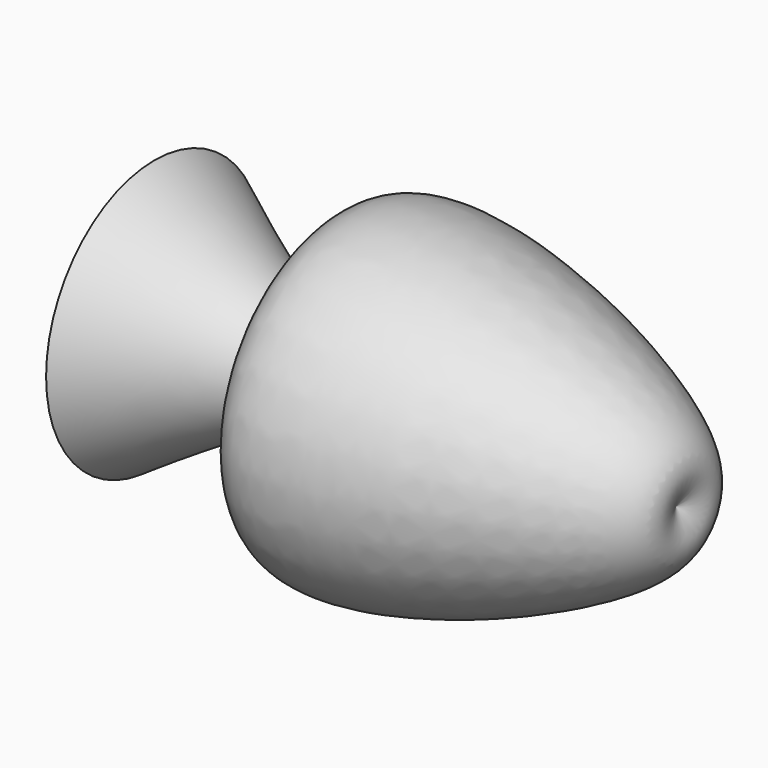
from build123d import *


with BuildPart() as f3:
    # F0 (on Front) → F3 (revolve)
    with BuildSketch(Plane.XZ):
        with BuildLine():
            add(Edge.make_bspline(
                [(73.6941844225, 0), (75.7631076765, -3.6763355994), (82.8956118243, -16.3503093007), (-8.859720763, -49.6396143974), (7.9804095961, 0.06879446), (-19.3122351383, -17.8758348829), (-35.1332761347, -28.2780043781)],
                knots=[0, 0, 0, 0, 0.1529148865, 0.5271660318, 0.7259069003, 1, 1, 1, 1], degree=3))
            Line((73.6941844225, 0), (-35.1332761347, 0))
            Line((-35.1332761347, 0), (-35.1332761347, -28.2780043781))
        make_face()
    revolve(axis=Axis((19.2804541439, 0, 0), (1, 0, 0)))


solid = f3.part
